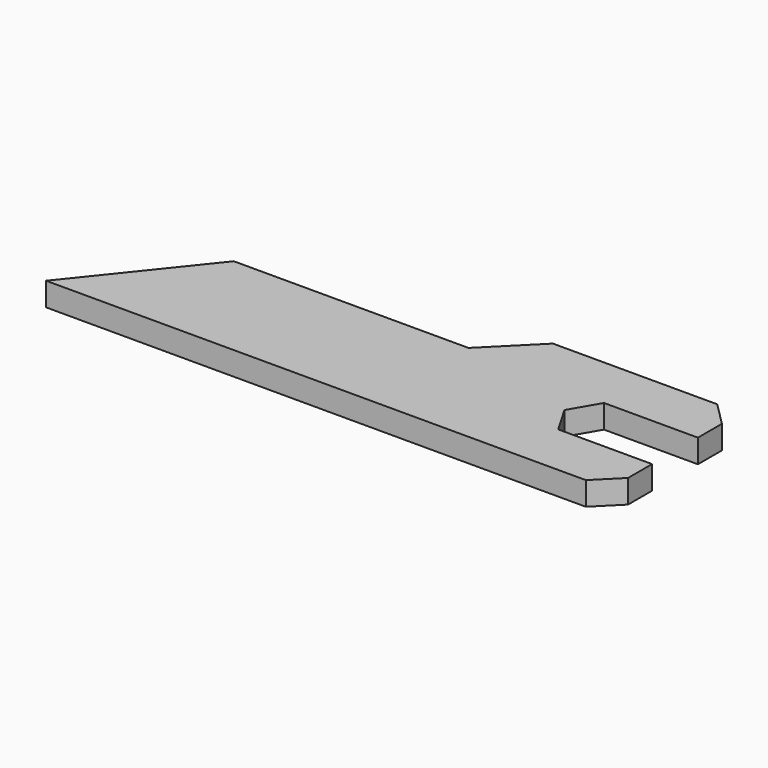
from build123d import *

# Parameters (mm, degrees)
SKETCH_W        = 120
SKETCH_H        = 35
PAD_DEPTH       = 5
POCKET_DEPTH    = 5
POCKET001_DEPTH = 5


with BuildPart() as part:
    # Sketch → Pad (new body)
    with BuildSketch(Plane.XY):
        Rectangle(SKETCH_W, SKETCH_H)
    extrude(amount=PAD_DEPTH)

    # Sketch001 (on Face6 of Pad) → Pocket (cut)
    with BuildSketch(Plane.XY.offset(5)):
        Polygon((40, -6.1), (60, -6.1), (60, 6.1), (40, 6.1), (36.445622, 0), align=None)
    extrude(amount=-POCKET_DEPTH, mode=Mode.SUBTRACT)

    # Sketch002 (on Face5 of Pocket) → Pocket001 (cut)
    with BuildSketch(Plane.XY.offset(5)):
        Polygon((20, 17.5), (10, 7.5), (-40, 7.5), (-60, -17.5), (-60, 17.5), align=None)
        Polygon((60, 17.5), (60, 12.5), (55, 17.5), align=None)
        Polygon((60, -17.5), (60, -12.5), (55, -17.5), align=None)
    extrude(amount=-POCKET001_DEPTH, mode=Mode.SUBTRACT)


solid = part.part
